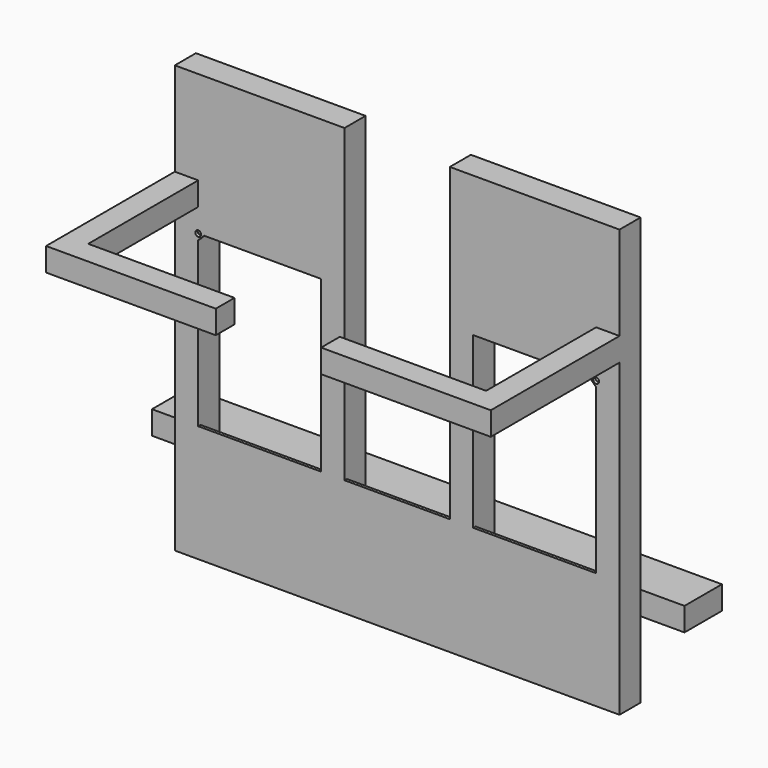
from build123d import *

# Parameters (mm, degrees)
F1_DEPTH  = 3.175
F2_W      = 177.8
F2_H      = 25.4
F3_DEPTH  = 25.4
F4_W      = 184.15
F4_H      = 25.4
F5_DEPTH  = 25.4
F7_R      = 3.175
F8_DEPTH  = 25.4
F9_W      = 133.35
F9_H      = 412.75
F10_DEPTH = 25.4
F11_W     = 50.8
F11_H     = 25.4
F12_DEPTH = 530.225
F13_W     = 50.8
F13_H     = 25.4
F14_DEPTH = 47.625


with BuildPart() as f1:
    # F0 (on Front) → F1 (new body)
    with BuildSketch(Plane.XZ):
        Polygon((241.3, -231.775), (241.3, 231.775), (57.15, 231.775), (57.15, -104.775), (-57.15, -104.775), (-57.15, 231.775), (-241.3, 231.775), (-241.3, 79.375), (-241.3, -104.775), (-241.3, -231.775), align=None)
        Polygon((-215.9, 73.025), (-209.55, 79.375), (-82.55, 79.375), (-82.55, -104.775), (-215.9, -104.775), align=None, mode=Mode.SUBTRACT)
        Polygon((82.55, -104.775), (82.55, 79.375), (209.55, 79.375), (215.9, 73.025), (215.9, -104.775), align=None, mode=Mode.SUBTRACT)
    extrude(amount=F1_DEPTH)

    # F2 (on face) → F3 (join)
    with BuildSketch(Plane.YZ.offset(241.3)):
        with Locations((-88.9, 117.475)):
            Rectangle(F2_W, F2_H)
    extrude(amount=-F3_DEPTH)

    # F4 (on face) → F5 (join)
    with BuildSketch(Plane.XZ.offset(177.8)):
        with Locations((149.225, 117.475)):
            Rectangle(F4_W, F4_H)
    extrude(amount=-F5_DEPTH)

    # F6: F1 across plane


with BuildPart() as f1_1:
    add(f1.part)
    add(f1.part.mirror(Plane.YZ))

    # F7 (on face) → F8 (cut)
    with BuildSketch(Plane.XZ.offset(3.175)):
        with Locations((-215.9, 79.375)):
            Circle(F7_R)
        with Locations((215.9, 79.375)):
            Circle(F7_R)
    extrude(amount=-F8_DEPTH, mode=Mode.SUBTRACT)

    # F9 (on face) → F10 (join)
    with BuildSketch(Plane(origin=(0, 0, 0), x_dir=(-1, 0, 0), z_dir=(0, 1, 0))):
        Polygon((-57.15, 231.775), (-241.3, 231.775), (-241.3, -206.375), (-241.3, -231.775), (241.3, -231.775), (241.3, 231.775), (57.15, 231.775), (57.15, -206.375), (-57.15, -206.375), align=None)
        with Locations((-149.225, 0)):
            Rectangle(F9_W, F9_H, mode=Mode.SUBTRACT)
        with Locations((149.225, 0)):
            Rectangle(F9_W, F9_H, mode=Mode.SUBTRACT)
    extrude(amount=F10_DEPTH)

    # F11 (on face) → F12 (join)
    with BuildSketch(Plane.YZ.offset(241.3)):
        with Locations((50.8, -136.525)):
            Rectangle(F11_W, F11_H)
    extrude(amount=-F12_DEPTH)

    # F13 (on face) → F14 (join)
    with BuildSketch(Plane.YZ.offset(241.3)):
        with Locations((50.8, -136.525)):
            Rectangle(F13_W, F13_H)
    extrude(amount=F14_DEPTH)


solid = f1_1.part
